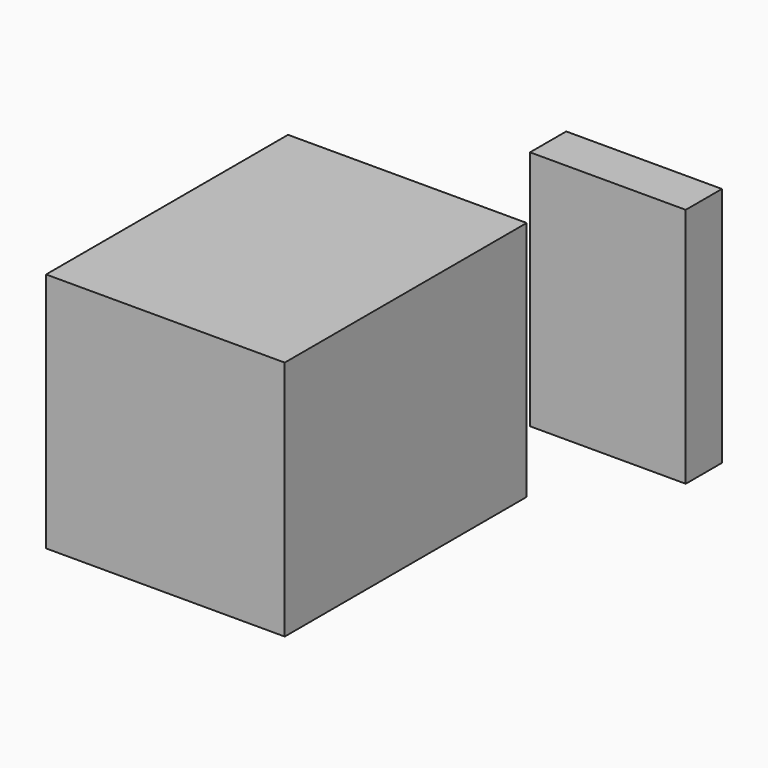
from build123d import *

# Parameters (mm, degrees)
F0_W     = 56.857355
F0_H     = 72.053544
F0_W_2   = 37.097018
F0_H_2   = 10.772057
F1_DEPTH = 57.461709


with BuildPart() as f1:
    # F0 (on Top) → F1 (new body)
    with BuildSketch(Plane.XY):
        with Locations((28.428677, 36.026772)):
            Rectangle(F0_W, F0_H)
        with Locations((58.112355, 100.055929)):
            Rectangle(F0_W_2, F0_H_2)
    extrude(amount=F1_DEPTH)


solid = f1.part
